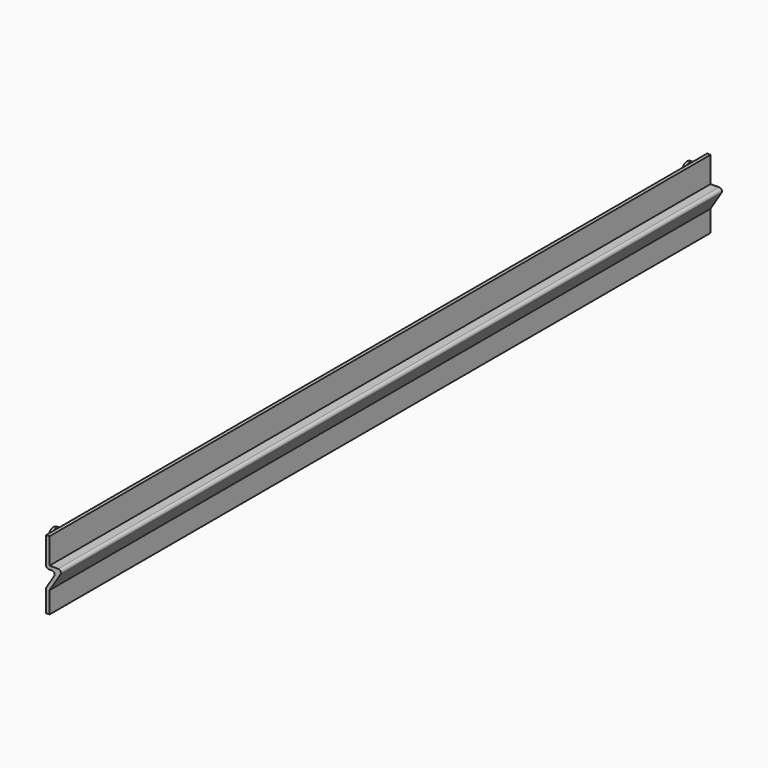
from build123d import *

# Parameters (mm, degrees)
PAD_DEPTH    = 609.6
SKETCH001_R  = 3
PAD001_DEPTH = 2.54
SKETCH002_R  = 5
PAD002_DEPTH = 2
FILLET_R     = 2


with BuildPart() as part:
    # Sketch → Pad (new body)
    with BuildSketch(Plane.XZ):
        Polygon((0, 0), (0, 16.51), (7.952592, 29.21), (0, 29.21), (0, 50.8), (2.54, 50.8), (2.54, 31.75), (12.54, 31.75), (2.54, 15.780364), (2.54, 0), align=None)
    extrude(amount=PAD_DEPTH)

    # Sketch001 (on Face4 of Pad) → Pad001 (join)
    with BuildSketch(Plane(origin=(0, 0, 0), x_dir=(0, 0, -1), z_dir=(-1, 0, 0))):
        with Locations((-44.45, 12.7)):
            Circle(SKETCH001_R)
        with Locations((-6.35, 12.7)):
            Circle(SKETCH001_R)
        with Locations((-44.45, 596.9)):
            Circle(SKETCH001_R)
        with Locations((-6.35, 596.9)):
            Circle(SKETCH001_R)
    extrude(amount=PAD001_DEPTH)

    # Sketch002 (on Face20 of Pad001) → Pad002 (join)
    with BuildSketch(Plane(origin=(-2.54, 0, 0), x_dir=(0, 0, -1), z_dir=(-1, 0, 0))):
        with Locations((-44.45, 12.7)):
            Circle(SKETCH002_R)
        with Locations((-6.35, 596.9)):
            Circle(SKETCH002_R)
        with Locations((-44.45, 596.9)):
            Circle(SKETCH002_R)
        with Locations((-6.35, 12.7)):
            Circle(SKETCH002_R)
    extrude(amount=PAD002_DEPTH)

    # Fillet
    fillet_edges = [part.edges().sort_by_distance(p)[0] for p in [
        (0, -304.8, 29.21),
        (0, -304.8, 16.51),
        (12.54, -304.8, 31.75),
        (7.952592, -304.8, 29.21),
    ]]
    fillet(fillet_edges, radius=FILLET_R)


solid = part.part
